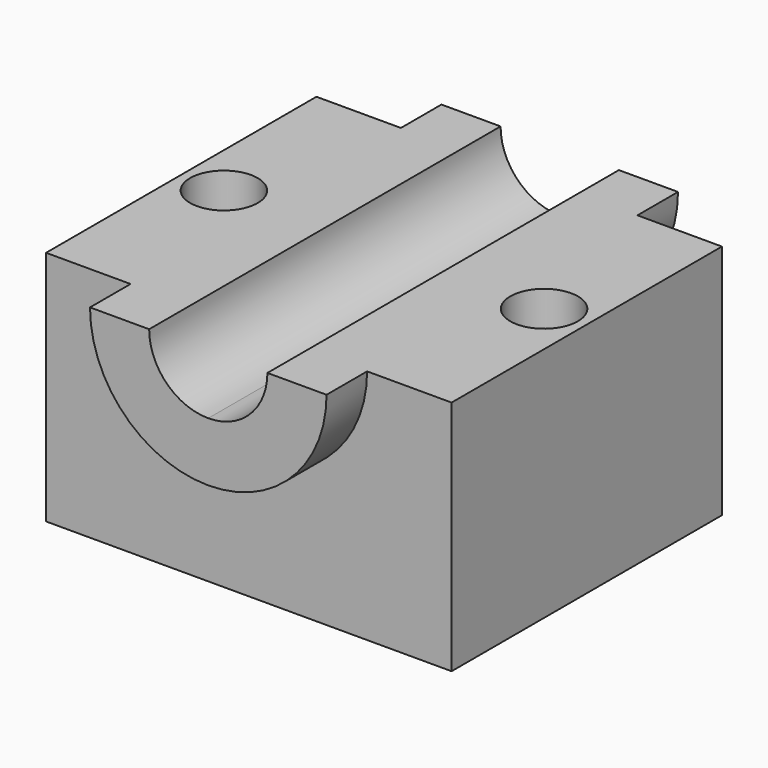
from build123d import *

# Parameters (mm, degrees)
F1_DEPTH = 50
F2_DEPTH = 50
F3_DEPTH = 65
F4_DEPTH = 65
F5_R     = 10
F6_DEPTH = 200


with BuildPart() as f1:
    # F0 (on Front) → F1 (new body)
    with BuildSketch(Plane.XZ):
        with BuildLine():
            Line((60, 35), (35, 35))
            ThreePointArc((35, 35), (24.7487373415, 10.2512626585), (0, 0))
            Line((0, 0), (0, -35))
            Line((0, -35), (60, -35))
            Line((60, -35), (60, 35))
        make_face()
    extrude(amount=F1_DEPTH)

    # F2 (add): a face of the model
    f2_faces = [f1.faces().sort_by_distance(p)[0] for p in [
        (34.5003777815, 0, -5.9860884872),
    ]]
    extrude(f2_faces, amount=F2_DEPTH)

    # F0 (on Front) → F3 (join)
    with BuildSketch(Plane.XZ):
        with BuildLine():
            Line((35, 35), (17.5, 35))
            ThreePointArc((17.5, 35), (12.3743686708, 22.6256313292), (0, 17.5))
            Line((0, 17.5), (0, 0))
            ThreePointArc((0, 0), (24.7487373415, 10.2512626585), (35, 35))
        make_face()
    extrude(amount=F3_DEPTH)

    # F4 (add): a face of the model
    f4_faces = [f1.faces().sort_by_distance(p)[0] for p in [
        (17.3302049145, 0, 17.6697950855),
    ]]
    extrude(f4_faces, amount=F4_DEPTH)

    # F5 (on face) → F6 (cut)
    with BuildSketch(Plane.XY.offset(35)):
        with Locations((47.3726391792, 0)):
            Circle(F5_R)
    extrude(amount=-F6_DEPTH, mode=Mode.SUBTRACT)

    # F7: F1 across face


with BuildPart() as f1_1:
    add(f1.part)
    add(f1.part.mirror(Plane(origin=(0, 0, -7.1590909091), x_dir=(0, -1, 0), z_dir=(-1, 0, 0))))


solid = f1_1.part
